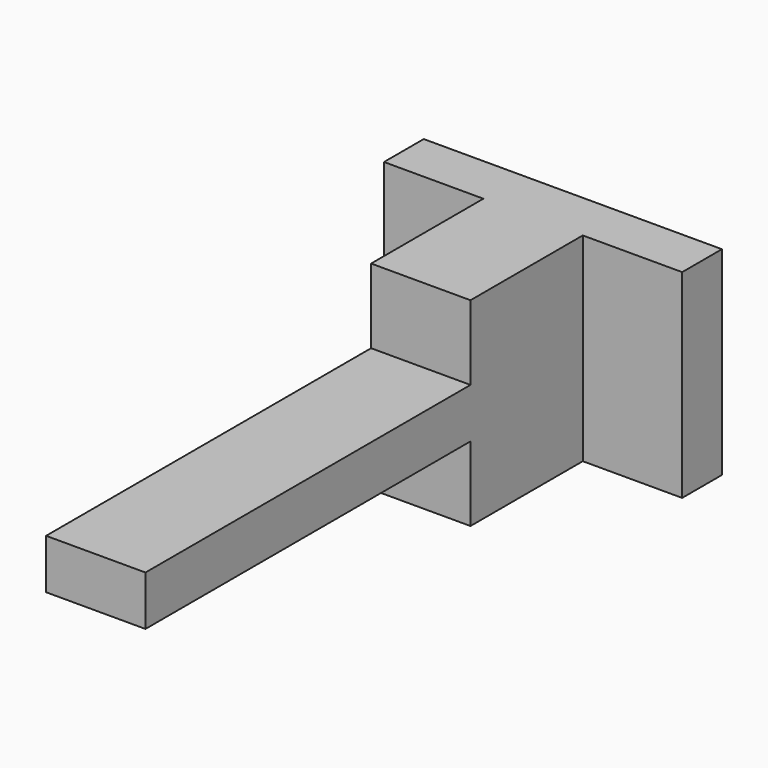
from build123d import *

# Parameters (mm, degrees)
F0_W          = 12.7
F0_H          = 76.2
F1_DEPTH      = 6.35
F2_W          = 6.35
F2_H          = 25.4
F3_DEPTH      = 12.7
F3_DEPTH_BACK = 25.4
F4_W          = 12.7
F4_H          = 17.9375
F5_DEPTH      = 9.525
F5_DEPTH_BACK = 15.875


with BuildPart() as f1:
    # F0 (on Top) → F1 (new body)
    with BuildSketch(Plane.XY):
        with Locations((6.35, 41.040604)):
            Rectangle(F0_W, F0_H)
    extrude(amount=F1_DEPTH)

    # F2 (on face) → F3 (join, two sides)
    with BuildSketch(Plane(origin=(0, 0, 0), x_dir=(0, -1, 0), z_dir=(-1, 0, 0))) as f3_sk:
        with Locations((-75.965604, 3.175)):
            Rectangle(F2_W, F2_H)
    extrude(amount=F3_DEPTH)
    extrude(f3_sk.sketch, amount=-F3_DEPTH_BACK)

    # F4 (on face) → F5 (join, two sides)
    with BuildSketch(Plane.XY.offset(6.35)) as f5_sk:
        with Locations((6.35, 63.821854)):
            Rectangle(F4_W, F4_H)
    extrude(amount=F5_DEPTH)
    extrude(f5_sk.sketch, amount=-F5_DEPTH_BACK)


solid = f1.part
